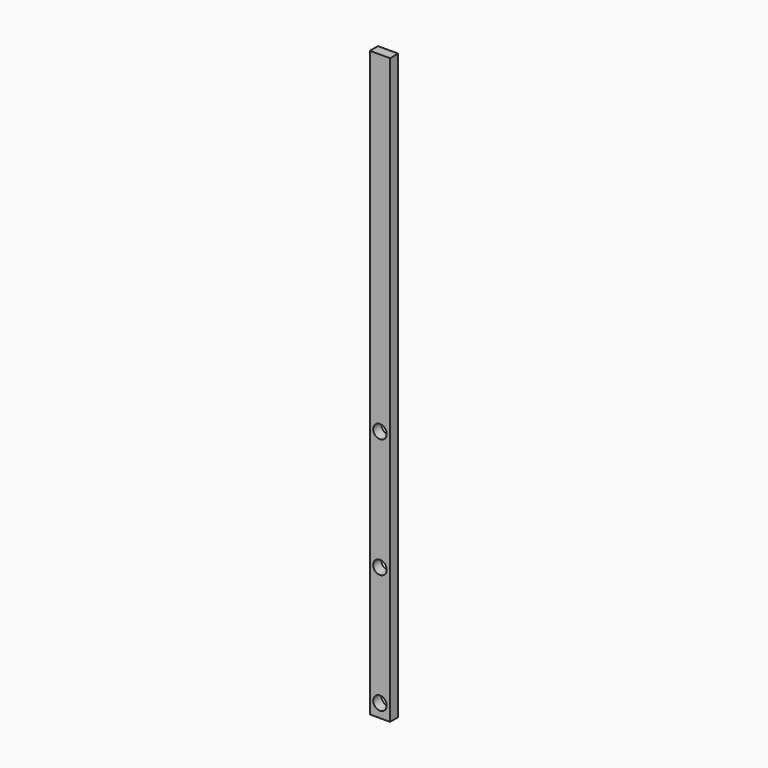
from build123d import *

# Parameters (mm, degrees)
F0_W     = 38.1
F0_H     = 500
F1_DEPTH = 19.05
F2_R     = 12.7
F3_DEPTH = 25
F4_R     = 12.7
F5_DEPTH = 25
F6_W     = 38.1
F6_H     = 19.05
F7_DEPTH = 600


with BuildPart() as f1:
    # F0 (on Front) → F1 (new body)
    with BuildSketch(Plane.XZ):
        with Locations((19.05, 250)):
            Rectangle(F0_W, F0_H)
    extrude(amount=F1_DEPTH)

    # F2 (on face) → F3 (cut)
    with BuildSketch(Plane.XZ.offset(19.05)):
        with Locations((19.05, 475)):
            Circle(F2_R)
        with Locations((19.05, 25)):
            Circle(F2_R)
    extrude(amount=-F3_DEPTH, mode=Mode.SUBTRACT)

    # F4 (on face) → F5 (cut)
    with BuildSketch(Plane.XZ.offset(19.05)):
        with Locations((19.05, 250)):
            Circle(F4_R)
    extrude(amount=-F5_DEPTH, mode=Mode.SUBTRACT)

    # F6 (on face) → F7 (join)
    with BuildSketch(Plane.XY.offset(500)):
        with Locations((19.05, -9.525)):
            Rectangle(F6_W, F6_H)
    extrude(amount=F7_DEPTH)


solid = f1.part
